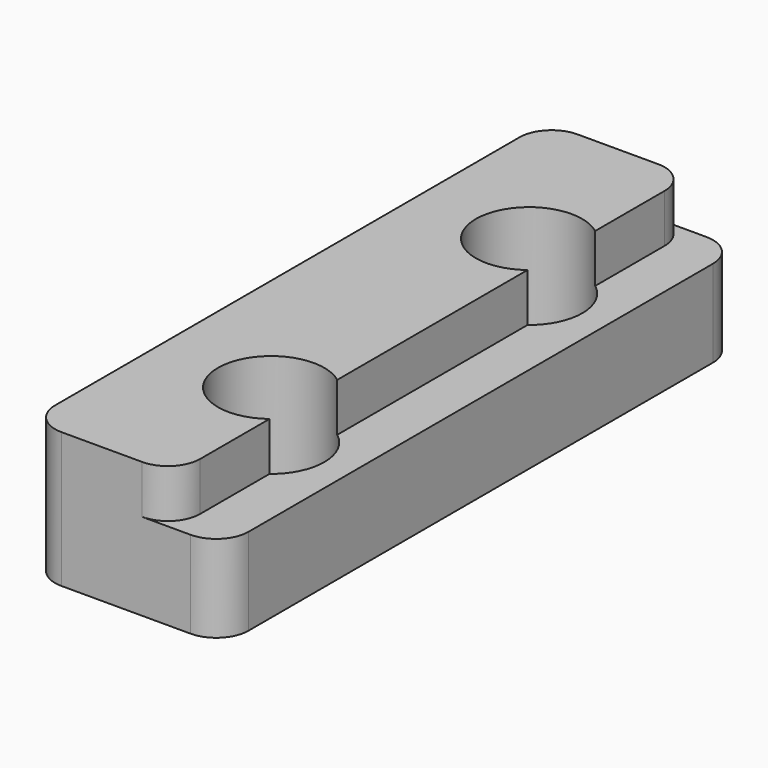
from build123d import *

# Parameters (mm, degrees)
SKETCH_W     = 6
SKETCH_H     = 20
SKETCH_R     = 1.65
PAD_DEPTH    = 2.7
SKETCH001_W  = 4.5
SKETCH001_H  = 20
PAD001_DEPTH = 1.5
SKETCH002_R  = 1.65
POCKET_DEPTH = 4.201
FILLET_R     = 1


with BuildPart() as part:
    # Sketch → Pad (new body)
    with BuildSketch(Plane.XY):
        with Locations((-0.5, -5)):
            Rectangle(SKETCH_W, SKETCH_H)
        Circle(SKETCH_R, mode=Mode.SUBTRACT)
        with Locations((0, -10)):
            Circle(SKETCH_R, mode=Mode.SUBTRACT)
    extrude(amount=PAD_DEPTH)

    # Sketch001 (on Face8 of Pad) → Pad001 (join)
    with BuildSketch(Plane.XY.offset(2.7)):
        with Locations((-1.25, -5)):
            Rectangle(SKETCH001_W, SKETCH001_H)
    extrude(amount=PAD001_DEPTH)

    # Sketch002 → Pocket (cut, through all)
    with BuildSketch(Plane.XY.offset(4.2)):
        Circle(SKETCH002_R)
        with Locations((0, -10)):
            Circle(SKETCH002_R)
    extrude(amount=-POCKET_DEPTH, mode=Mode.SUBTRACT)

    # Fillet
    fillet_edges = [part.edges().sort_by_distance(p)[0] for p in [
        (-3.5, -15, 3.45),
        (-3.5, -15, 1.35),
        (-3.5, 5, 3.45),
        (-3.5, 5, 1.35),
        (2.5, -15, 1.35),
        (1, -15, 3.45),
        (2.5, 5, 1.35),
        (1, 5, 3.45),
    ]]
    fillet(fillet_edges, radius=FILLET_R)


solid = part.part
